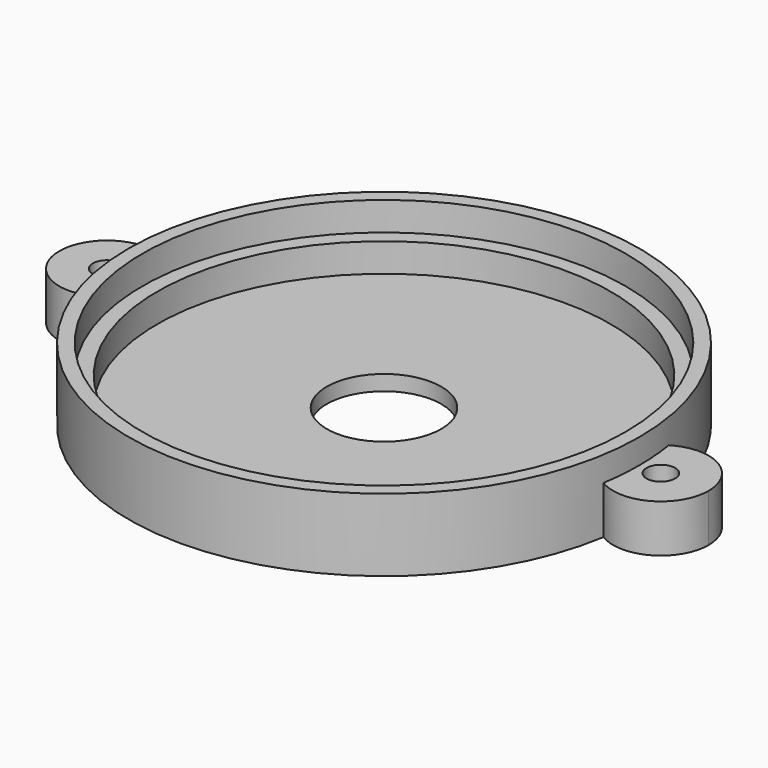
from build123d import *

# Parameters (mm, degrees)
F0_R     = 26.75
F1_DEPTH = 1.6
F2_R     = 26.75
F2_R_2   = 23.75
F3_DEPTH = 3
F4_R     = 26.75
F4_R_2   = 25.3
F5_DEPTH = 3
F6_R     = 6
F7_DEPTH = 25
F8_R     = 1.5
F9_DEPTH = 5


with BuildPart() as f1:
    # F0 (on Top) → F1 (new body)
    with BuildSketch(Plane.XY):
        Circle(F0_R)
    extrude(amount=F1_DEPTH)

    # F2 (on face) → F3 (join)
    with BuildSketch(Plane.XY.offset(1.6)):
        Circle(F2_R)
        Circle(F2_R_2, mode=Mode.SUBTRACT)
    extrude(amount=F3_DEPTH)

    # F4 (on face) → F5 (join)
    with BuildSketch(Plane.XY.offset(4.6)):
        Circle(F4_R)
        Circle(F4_R_2, mode=Mode.SUBTRACT)
    extrude(amount=F5_DEPTH)

    # F6 (on face) → F7 (cut)
    with BuildSketch(Plane.XY.offset(1.6)):
        Circle(F6_R)
    extrude(amount=-F7_DEPTH, mode=Mode.SUBTRACT)

    # F8 (on Top) → F9 (join)
    with BuildSketch(Plane.XY):
        with BuildLine():
            ThreePointArc((-26.40625, -4.2746299182), (-26.75, 0), (-26.40625, 4.2746299182))
            ThreePointArc((-26.40625, 4.2746299182), (-34, 0), (-26.40625, -4.2746299182))
        make_face()
        with Locations((-29, 0)):
            Circle(F8_R, mode=Mode.SUBTRACT)
        with BuildLine():
            ThreePointArc((26.40625, -4.2746299182), (31.4526771088, -4.3571062645), (34, 0))
            ThreePointArc((34, 0), (31.4526771088, 4.3571062645), (26.40625, 4.2746299182))
            ThreePointArc((26.40625, 4.2746299182), (26.6639240126, 2.1442145998), (26.75, 0))
            ThreePointArc((26.75, 0), (26.6639240126, -2.1442145998), (26.40625, -4.2746299182))
        make_face()
        with Locations((29, 0)):
            Circle(F8_R, mode=Mode.SUBTRACT)
    extrude(amount=F9_DEPTH)


solid = f1.part
